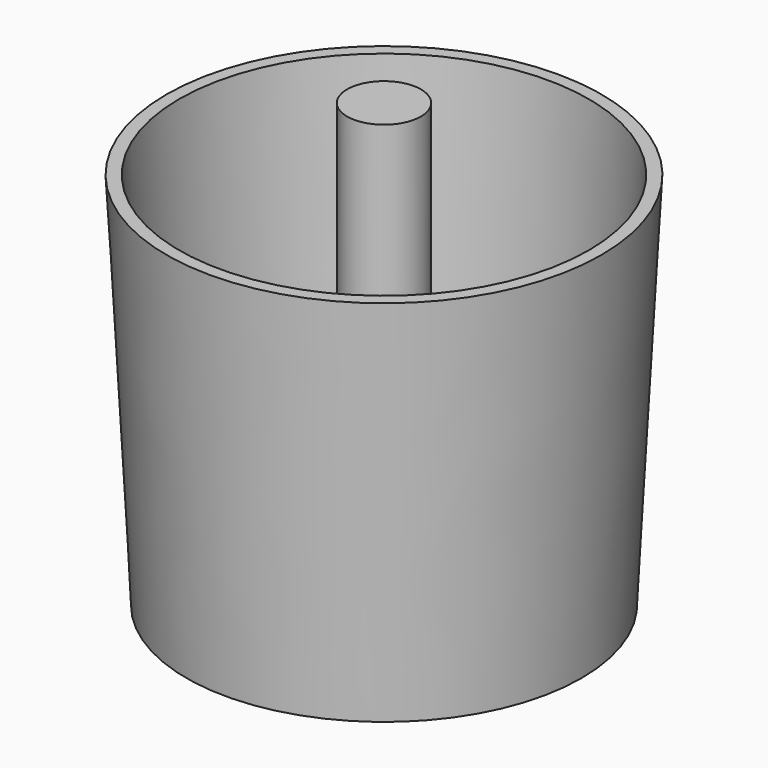
from build123d import *

# Parameters (mm, degrees)
F0_R     = 39.7326130333
F1_DEPTH = 76.2
F1_TAPER = -3
F2_T     = -2.54
F3_DEPTH = 25.4
F4_T     = -2.54
F5_R     = 18.2833455915
F6_DEPTH = 25.4
F7_R     = 7.4141197659
F8_DEPTH = 88.9


with BuildPart() as f1:
    # F0 (on Top) → F1 (new body)
    with BuildSketch(Plane.XY):
        Circle(F0_R)
    extrude(amount=F1_DEPTH, taper=F1_TAPER)

    # F2
    f2_openings = [f1.faces().sort_by_distance(p)[0] for p in [
        (0, 0, 76.2),
    ]]
    offset(amount=F2_T, openings=f2_openings, kind=Kind.INTERSECTION)

    # F3 (add): a face of the model
    f3_faces = [f1.faces().sort_by_distance(p)[0] for p in [
        (0, 0, 2.54),
    ]]
    extrude(f3_faces, amount=F3_DEPTH)

    # F4
    f4_openings = [f1.faces().sort_by_distance(p)[0] for p in [
        (0, 0, 27.94),
    ]]
    offset(amount=F4_T, openings=f4_openings, kind=Kind.INTERSECTION)

    # F5 (on Top) → F6 (join)
    with BuildSketch(Plane.XY):
        Circle(F5_R)
    extrude(amount=F6_DEPTH)

    # F7 (on Top) → F8 (join)
    with BuildSketch(Plane.XY):
        Circle(F7_R)
    extrude(amount=F8_DEPTH)


solid = f1.part
